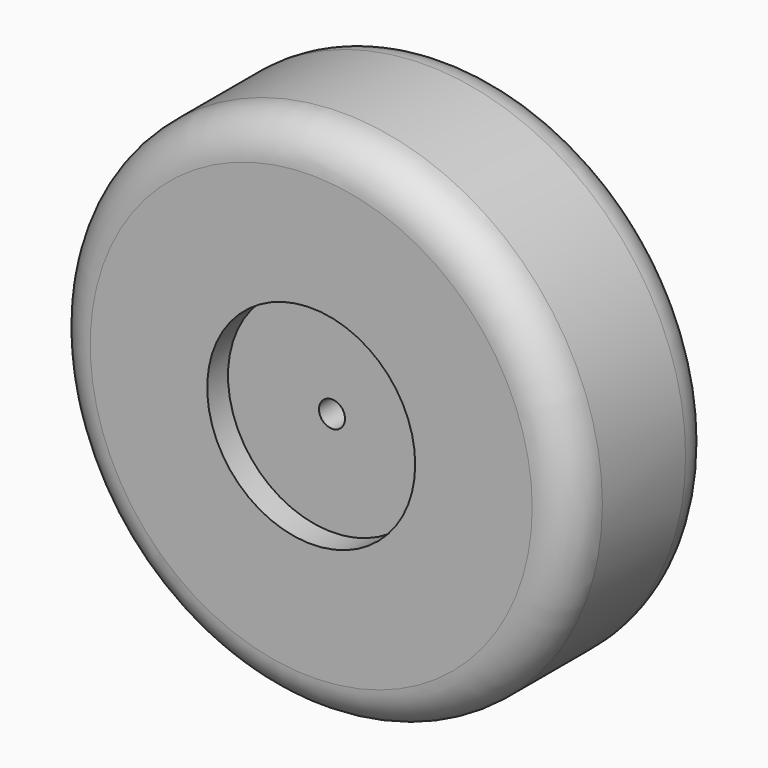
from build123d import *

# Parameters (mm, degrees)
F0_R     = 254
F1_DEPTH = 88.9
F2_R     = 101.6
F3_DEPTH = 25.4
F4_R     = 101.6
F5_DEPTH = 25.4
F6_R     = 38.1
F7_R     = 12.7
F8_DEPTH = 177.8


with BuildPart() as f1:
    # F0 (on Front) → F1 (new body, symmetric)
    with BuildSketch(Plane.XZ):
        Circle(F0_R)
    extrude(amount=F1_DEPTH, both=True)

    # F2 (on face) → F3 (cut)
    with BuildSketch(Plane.XZ.offset(88.9)):
        Circle(F2_R)
    extrude(amount=-F3_DEPTH, mode=Mode.SUBTRACT)

    # F4 (on face) → F5 (cut)
    with BuildSketch(Plane(origin=(0, 88.9, 0), x_dir=(-1, 0, 0), z_dir=(0, 1, 0))):
        Circle(F4_R)
    extrude(amount=-F5_DEPTH, mode=Mode.SUBTRACT)

    # F6
    f6_edges = [f1.edges().sort_by_distance(p)[0] for p in [
        (-254, 88.9, 0),
        (-254, -88.9, 0),
    ]]
    fillet(f6_edges, radius=F6_R)

    # F7 (on face) → F8 (cut, symmetric)
    with BuildSketch(Plane(origin=(0, 63.5, 0), x_dir=(-1, 0, 0), z_dir=(0, 1, 0))):
        Circle(F7_R)
    extrude(amount=F8_DEPTH, both=True, mode=Mode.SUBTRACT)


solid = f1.part
